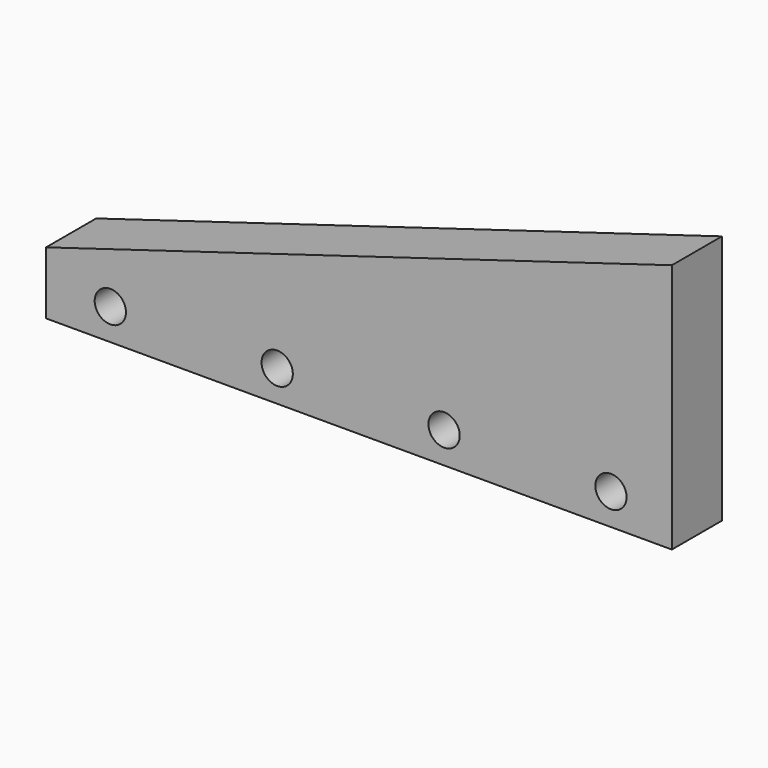
from build123d import *

# Parameters (mm, degrees)
F0_R     = 0.25
F1_DEPTH = 1


with BuildPart() as f1:
    # F0 (on Front) → F1 (new body)
    with BuildSketch(Plane.XZ):
        Polygon((-10, 0), (0, 0), (0, 4), (-10, 1), align=None)
        with Locations((-8.97338, 0.5)):
            Circle(F0_R, mode=Mode.SUBTRACT)
        with Locations((-6.306713, 0.5)):
            Circle(F0_R, mode=Mode.SUBTRACT)
        with Locations((-3.640046, 0.5)):
            Circle(F0_R, mode=Mode.SUBTRACT)
        with Locations((-0.97338, 0.5)):
            Circle(F0_R, mode=Mode.SUBTRACT)
    extrude(amount=F1_DEPTH)


solid = f1.part
